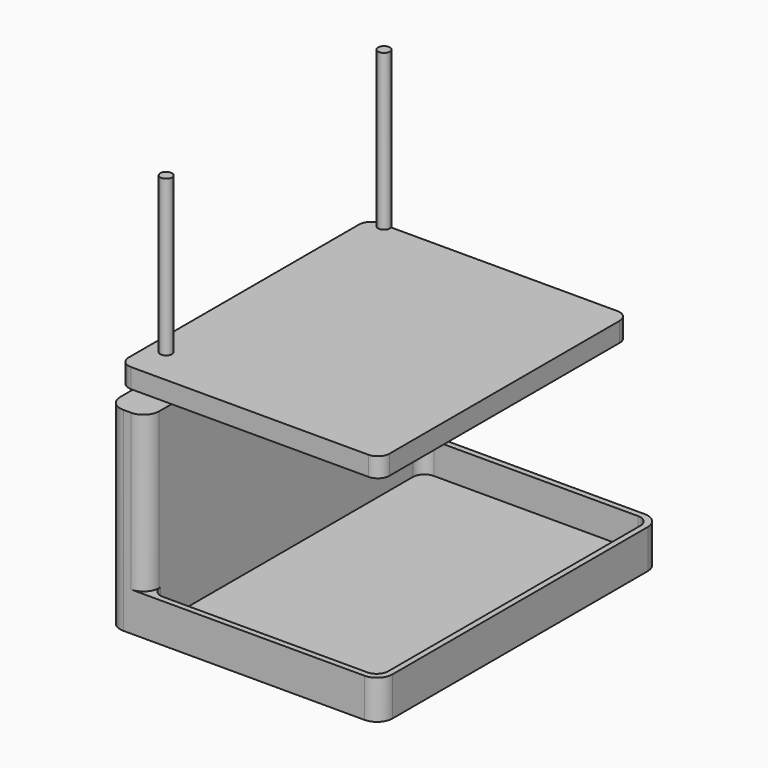
from build123d import *

# Parameters (mm, degrees)
F1_DEPTH      = 45
F1_DEPTH_BACK = 45
F5_DEPTH      = 8
F3_W          = 67
F3_H          = 5
F6_DEPTH      = 40
F6_DEPTH_BACK = 40
F7_R          = 4
F8_R          = 3
F9_R          = 1.5
F10_DEPTH     = 40


with BuildPart() as f1:
    # F0 (on Front) → F1 (new body, two sides)
    with BuildSketch(Plane.XZ) as f1_sk:
        Polygon((0, 50), (0, 0), (70, 0), (70, 10), (10, 10), (10, 50), align=None)
    extrude(amount=F1_DEPTH)
    extrude(f1_sk.sketch, amount=-F1_DEPTH_BACK)

    # F4 (on face) → F5 (cut)
    with BuildSketch(Plane.XY.offset(10)):
        with BuildLine():
            ThreePointArc((68.5, 40.5), (67.6213203436, 42.6213203436), (65.5, 43.5))
            Line((65.5, 43.5), (13, 43.5))
            ThreePointArc((13, 43.5), (10.8786796564, 42.6213203436), (10, 40.5))
            Line((10, 40.5), (10, -40.5))
            ThreePointArc((10, -40.5), (10.8786796564, -42.6213203436), (13, -43.5))
            Line((13, -43.5), (65.5, -43.5))
            ThreePointArc((65.5, -43.5), (67.6213203436, -42.6213203436), (68.5, -40.5))
            Line((68.5, -40.5), (68.5, 40.5))
        make_face()
    extrude(amount=-F5_DEPTH, mode=Mode.SUBTRACT)

    # F7
    f7_edges = [f1.edges().sort_by_distance(p)[0] for p in [
        (70, -45, 5),
        (70, 45, 5),
        (0, -45, 25),
        (0, 45, 25),
        (10, -45, 30),
        (10, 45, 30),
    ]]
    fillet(f7_edges, radius=F7_R)


with BuildPart() as f6:
    # F3 (on Front) → F6 (new body, two sides)
    with BuildSketch(Plane.XZ) as f6_sk:
        with Locations((32.5, 54.5)):
            Rectangle(F3_W, F3_H)
    extrude(amount=-F6_DEPTH)
    extrude(f6_sk.sketch, amount=F6_DEPTH_BACK)

    # F8
    f8_edges = [f6.edges().sort_by_distance(p)[0] for p in [
        (66, -40, 54.5),
        (66, 40, 54.5),
        (-1, 40, 54.5),
        (-1, -40, 54.5),
    ]]
    fillet(f8_edges, radius=F8_R)


with BuildPart() as f10:
    # F9 (on offset) → F10 (new body)
    with BuildSketch(Plane.XY.offset(60)):
        with Locations((7, -35)):
            Circle(F9_R)
    extrude(amount=F10_DEPTH)


with BuildPart() as f10b:
    # F9 (on offset) → F10, piece 2 (new body)
    with BuildSketch(Plane.XY.offset(60)):
        with Locations((7, 35)):
            Circle(F9_R)
    extrude(amount=F10_DEPTH)


solid = Compound([f1.part, f6.part, f10.part, f10b.part])
